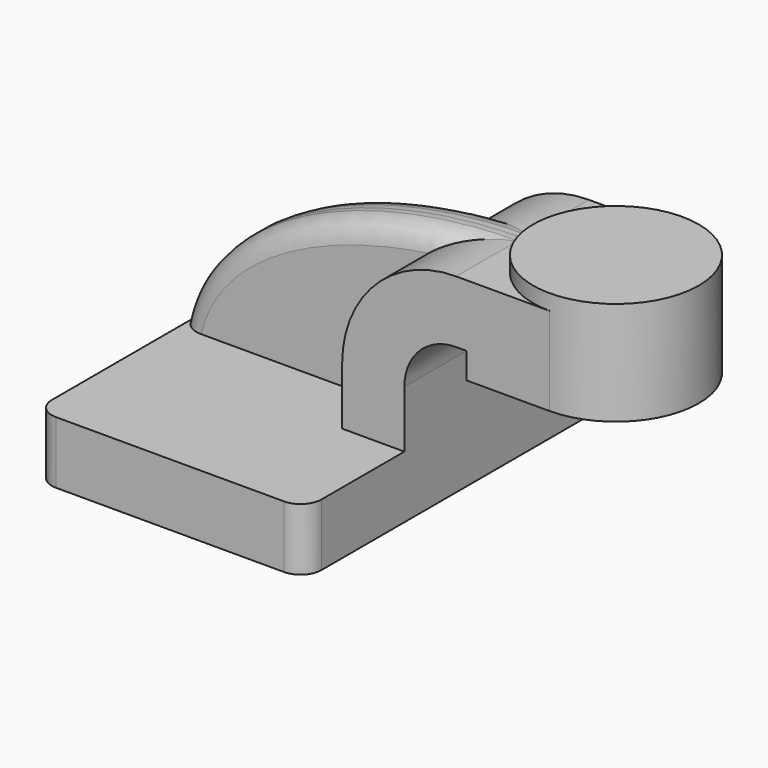
from build123d import *

# Parameters (mm, degrees)
F1_DEPTH = 63.5
F2_DEPTH = 25.4
F3_DEPTH = 8.255
F5_R     = 6.35


with BuildPart() as f1:
    # F0 (on Front) → F1 (new body, symmetric)
    with BuildSketch(Plane.XZ):
        Polygon((-41.275, -9.525), (41.275, -9.525), (41.275, 9.525), (22.225, 9.525), (-41.275, 9.525), align=None)
    extrude(amount=F1_DEPTH, both=True)

    # F0 (on Front) → F2 (join, symmetric)
    with BuildSketch(Plane.XZ):
        with BuildLine():
            Line((22.225, 9.525), (41.275, 9.525))
            Line((41.275, 9.525), (41.275, 27.0002))
            ThreePointArc((41.275, 27.0002), (45.92468, 38.22552), (57.15, 42.8752))
            Line((57.15, 42.8752), (60.325, 42.8752))
            Line((60.325, 42.8752), (60.325, 61.9252))
            Line((60.325, 61.9252), (57.15, 61.9252))
            ThreePointArc((57.15, 61.9252), (32.454296, 51.695904), (22.225, 27.0002))
            Line((22.225, 27.0002), (22.225, 9.525))
        make_face()
        Polygon((85.748255, 61.9252), (60.325, 61.9252), (60.325, 42.8752), (60.325, 34.925), (85.748255, 34.925), align=None)
    extrude(amount=F2_DEPTH, both=True)

    # F0 (on Front) → F3 (join, symmetric)
    with BuildSketch(Plane.XZ):
        with BuildLine():
            add(Edge.make_bspline(
                [(-41.275, 9.525), (-33.85127, 45.177106), (16.302885, 62.071145), (57.15, 61.9252)],
                knots=[0, 0, 0, 0, 111.504536, 111.504536, 111.504536, 111.504536], degree=3))
            Line((-41.275, 9.525), (22.225, 9.525))
            Line((22.225, 9.525), (22.225, 27.0002))
            ThreePointArc((22.225, 27.0002), (32.454296, 51.695904), (57.15, 61.9252))
        make_face()
    extrude(amount=F3_DEPTH, both=True)

    # F0 (on Front) → F4 (revolve)
    with BuildSketch(Plane.XZ):
        Polygon((85.748255, 66.675), (85.748255, 61.9252), (85.748255, 34.925), (111.125, 34.925), (111.125, 66.675), align=None)
    revolve(axis=Axis((85.748255, 0, 50.8), (0, 0, -1)))

    # F5
    f5_edges = [f1.edges().sort_by_distance(p)[0] for p in [
        (-41.275, -63.5, 0),
        (41.275, -63.5, 0),
        (41.275, 63.5, 0),
        (-41.275, 63.5, 0),
        (-1.167948, 8.255, 50.677931),
        (-1.167948, -8.255, 50.677931),
    ]]
    fillet(f5_edges, radius=F5_R)


solid = f1.part
